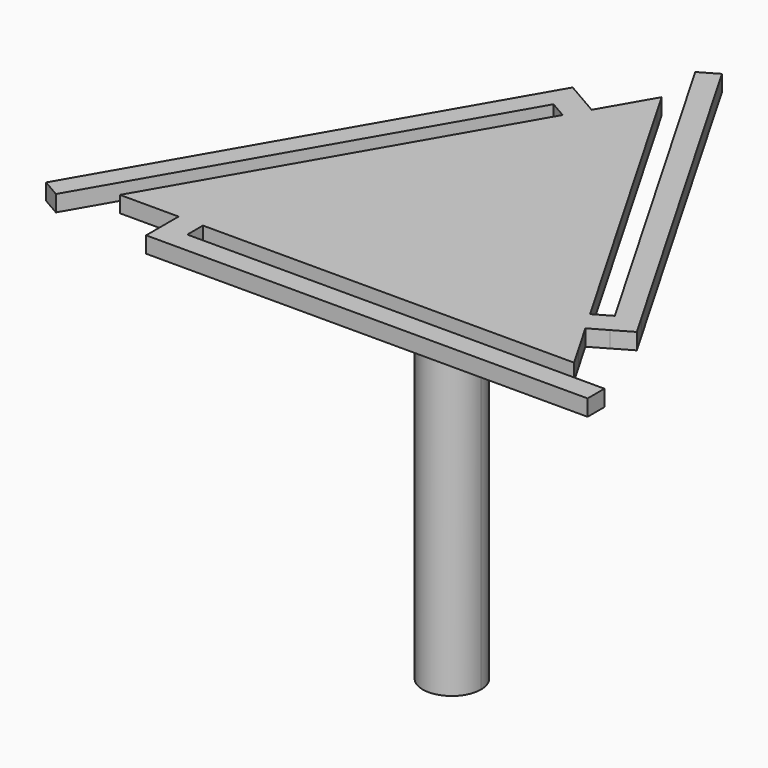
from build123d import *

# Parameters (mm, degrees)
F0_W     = 51.4415498351
F0_H     = 2.5980762114
F0_W_2   = 3
F0_H_2   = 2.4116262798
F1_DEPTH = 2
F2_DEPTH = 50


with BuildPart() as f1:
    # F0 (on Top) → F1 (new body)
    with BuildSketch(Plane.XY):
        Polygon((-32.9270592456, -3.7106643855), (-7.206284328, 40.8390245817), (-9.456284328, 42.1380626874), (-35.1770592456, -2.4116262798), align=None)
        with Locations((7.956284328, -3.7106643855)):
            Rectangle(F0_W, F0_H)
        with BuildLine():
            Line((22.8822452947, 8.8642111702), (14, 24.248711306))
            Line((14, 24.248711306), (11.9292428985, 23.053159136))
            ThreePointArc((11.9292428985, 23.053159136), (13.3053415678, 19.7309630654), (13.7747031974, 16.1658075373))
            ThreePointArc((13.7747031974, 16.1658075373), (-3.5651555281, 2.8604659695), (-11.9292428985, 23.053159136))
            Line((-11.9292428985, 23.053159136), (-14, 24.248711306))
            Line((-14, 24.248711306), (-26.5, 2.5980762114))
            Line((-26.5, 2.5980762114), (-25, 0))
            Line((-25, 0), (-20.7644905895, 0))
            Line((-20.7644905895, 0), (-17.7644905895, 0))
            Line((-17.7644905895, 0), (25, 0))
            Line((25, 0), (26.5, 2.5980762114))
            Line((26.5, 2.5980762114), (24.3822452947, 6.2661349588))
            Line((24.3822452947, 6.2661349588), (22.8822452947, 8.8642111702))
        make_face()
        with BuildLine():
            Line((1.5, 45.8993464006), (0, 48.4974226119))
            Line((0, 48.4974226119), (-1.5, 45.8993464006))
            Line((-1.5, 45.8993464006), (-3.6177547053, 42.2312876531))
            Line((-3.6177547053, 42.2312876531), (-5.1177547053, 39.6332114418))
            Line((-5.1177547053, 39.6332114418), (-14, 24.248711306))
            Line((-14, 24.248711306), (-11.9292428985, 23.053159136))
            ThreePointArc((-11.9292428985, 23.053159136), (0, 29.9405107347), (11.9292428985, 23.053159136))
            Line((11.9292428985, 23.053159136), (14, 24.248711306))
            Line((14, 24.248711306), (1.5, 45.8993464006))
        make_face()
        Polygon((-0.75, 54.6197132773), (24.9707749175, 10.0700243101), (27.2207749175, 11.3690624158), (1.5, 55.918751383), align=None)
        Polygon((-25, 0), (-26.5, 2.5980762114), (-28, 0), align=None)
        Polygon((-5.1177547053, 39.6332114418), (-3.6177547053, 42.2312876531), (-5.706284328, 43.437100793), (-7.206284328, 40.8390245817), align=None)
        with BuildLine():
            ThreePointArc((3.5919392574, 16.1658075373), (3.4695468952, 17.095469826), (3.1107106457, 17.961777166))
            Line((3.1107106457, 17.961777166), (0, 16.1658075373))
            Line((0, 16.1658075373), (-3.1107106457, 17.961777166))
            ThreePointArc((-3.1107106457, 17.961777166), (-0.9296622887, 12.6962606421), (3.5919392574, 16.1658075373))
        make_face()
        Polygon((24.9707749175, 10.0700243101), (22.8822452947, 8.8642111702), (24.3822452947, 6.2661349588), (26.4707749175, 7.4719480987), align=None)
        with Locations((-19.2644905895, -1.2058131399)):
            Rectangle(F0_W_2, F0_H_2)
        Polygon((-7.206284328, 40.8390245817), (-5.706284328, 43.437100793), (-7.956284328, 44.7361388987), (-9.456284328, 42.1380626874), align=None)
        Polygon((27.2207749175, 11.3690624158), (24.9707749175, 10.0700243101), (26.4707749175, 7.4719480987), (28.7207749175, 8.7709862044), align=None)
        with BuildLine():
            Line((0, 16.1658075373), (3.1107106457, 17.961777166))
            ThreePointArc((3.1107106457, 17.961777166), (0, 19.7577467947), (-3.1107106457, 17.961777166))
            Line((-3.1107106457, 17.961777166), (0, 16.1658075373))
        make_face()
        with Locations((-19.2644905895, -3.7106643855)):
            Rectangle(F0_W_2, F0_H)
        Polygon((28, 0), (26.5, 2.5980762114), (25, 0), align=None)
        with BuildLine():
            Line((3.1107106457, 17.961777166), (11.9292428985, 23.053159136))
            ThreePointArc((11.9292428985, 23.053159136), (0, 29.9405107347), (-11.9292428985, 23.053159136))
            Line((-11.9292428985, 23.053159136), (-3.1107106457, 17.961777166))
            ThreePointArc((-3.1107106457, 17.961777166), (0, 19.7577467947), (3.1107106457, 17.961777166))
        make_face()
        with BuildLine():
            ThreePointArc((13.7747031974, 16.1658075373), (13.3053415678, 19.7309630654), (11.9292428985, 23.053159136))
            Line((11.9292428985, 23.053159136), (3.1107106457, 17.961777166))
            ThreePointArc((3.1107106457, 17.961777166), (3.4695468952, 17.095469826), (3.5919392574, 16.1658075373))
            ThreePointArc((3.5919392574, 16.1658075373), (-0.9296622887, 12.6962606421), (-3.1107106457, 17.961777166))
            Line((-3.1107106457, 17.961777166), (-11.9292428985, 23.053159136))
            ThreePointArc((-11.9292428985, 23.053159136), (-3.5651555281, 2.8604659695), (13.7747031974, 16.1658075373))
        make_face()
    extrude(amount=-F1_DEPTH)

    # F0 (on Top) → F2 (join)
    with BuildSketch(Plane.XY):
        with BuildLine():
            ThreePointArc((3.5919392574, 16.1658075373), (3.4695468952, 17.095469826), (3.1107106457, 17.961777166))
            Line((3.1107106457, 17.961777166), (0, 16.1658075373))
            Line((0, 16.1658075373), (-3.1107106457, 17.961777166))
            ThreePointArc((-3.1107106457, 17.961777166), (-0.9296622887, 12.6962606421), (3.5919392574, 16.1658075373))
        make_face()
        with BuildLine():
            Line((0, 16.1658075373), (3.1107106457, 17.961777166))
            ThreePointArc((3.1107106457, 17.961777166), (0, 19.7577467947), (-3.1107106457, 17.961777166))
            Line((-3.1107106457, 17.961777166), (0, 16.1658075373))
        make_face()
    extrude(amount=-F2_DEPTH)


solid = f1.part
